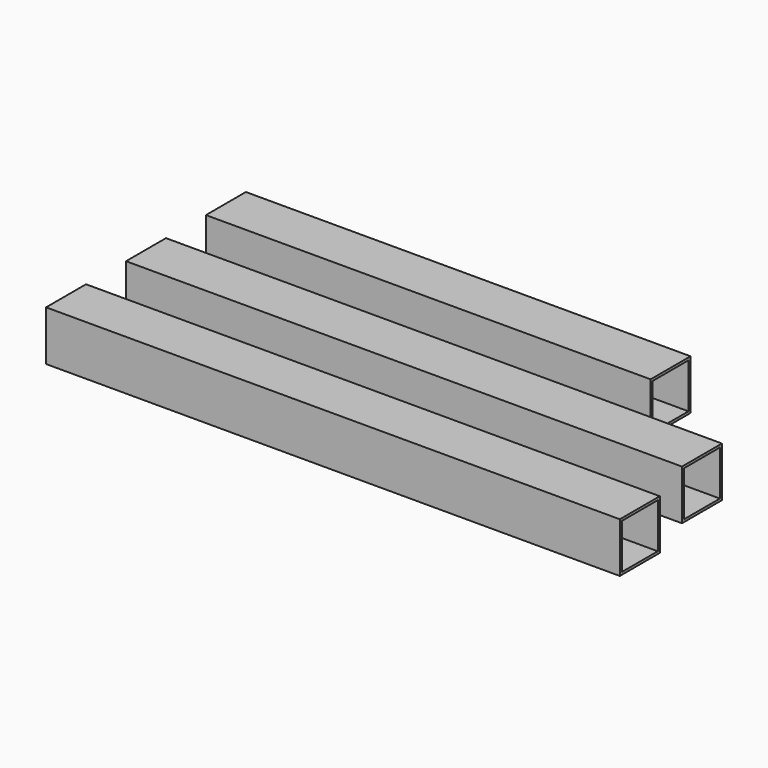
from build123d import *

# Parameters (mm, degrees)
F1_W     = 10
F1_H     = 10
F1_W_2   = 9
F1_H_2   = 9
F2_DEPTH = 89.028
F3_W     = 10
F3_H     = 10
F3_W_2   = 9
F3_H_2   = 9
F4_DEPTH = 111.31
F5_W     = 10
F5_H     = 10
F5_W_2   = 9
F5_H_2   = 9
F6_DEPTH = 114.87


with BuildPart() as f2:
    # F1 (on Right) → F2 (new body)
    with BuildSketch(Plane.YZ):
        Rectangle(F1_W, F1_H)
        Rectangle(F1_W_2, F1_H_2, mode=Mode.SUBTRACT)
    extrude(amount=F2_DEPTH)


with BuildPart() as f4:
    # F3 (on Right) → F4 (new body)
    with BuildSketch(Plane.YZ):
        with Locations((-20, 0)):
            Rectangle(F3_W, F3_H)
        with Locations((-20, 0)):
            Rectangle(F3_W_2, F3_H_2, mode=Mode.SUBTRACT)
    extrude(amount=F4_DEPTH)


with BuildPart() as f6:
    # F5 (on Right) → F6 (new body)
    with BuildSketch(Plane.YZ):
        with Locations((-40, 0)):
            Rectangle(F5_W, F5_H)
        with Locations((-40, 0)):
            Rectangle(F5_W_2, F5_H_2, mode=Mode.SUBTRACT)
    extrude(amount=F6_DEPTH)


solid = Compound([f2.part, f4.part, f6.part])
